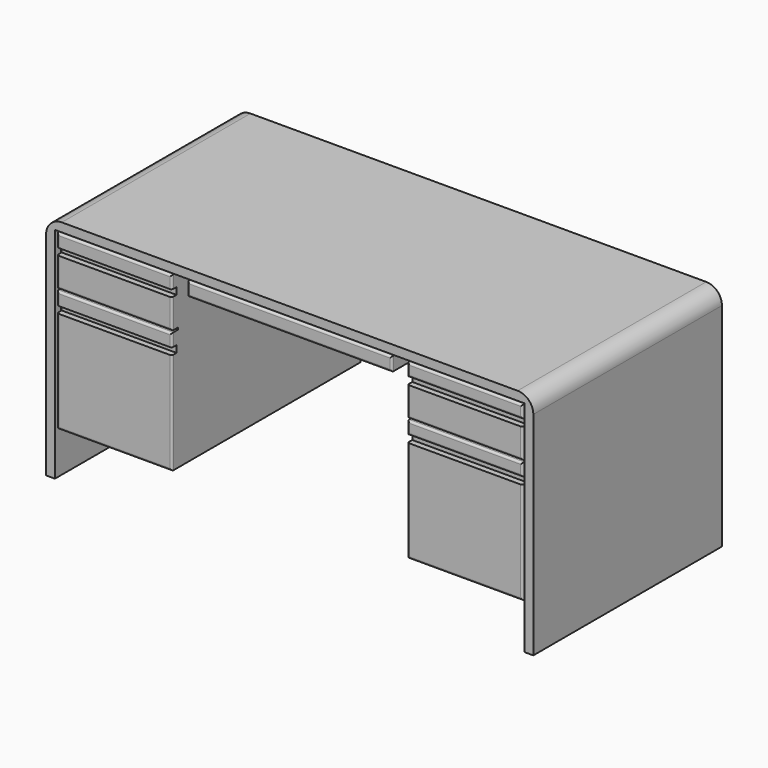
from build123d import *

# Parameters (mm, degrees)
F1_DEPTH = 381
F2_R     = 50.8
F3_W     = 660.4
F3_H     = 6.35
F4_DEPTH = 25.4
F3_W_2   = 371.475
F3_H_2   = 22.225
F5_DEPTH = 19.05
F6_R     = 6.35


with BuildPart() as f1:
    # F0 (on Front) → F1 (new body, symmetric)
    with BuildSketch(Plane.XZ):
        Polygon((787.4, 368.3), (-787.4, 368.3), (-787.4, -368.3), (-758.825, -368.3), (-758.825, -224.1076678038), (-381, -224.1076678038), (-381, 339.725), (-330.2, 339.725), (-330.2, 288.925), (330.2, 288.925), (330.2, 339.725), (381, 339.725), (381, -224.1076678038), (758.825, -224.1076678038), (758.825, -368.3), (787.4, -368.3), align=None)
    extrude(amount=F1_DEPTH, both=True)

    # F2
    f2_edges = [f1.edges().sort_by_distance(p)[0] for p in [
        (787.4, 0, 368.3),
        (-787.4, 0, 368.3),
    ]]
    fillet(f2_edges, radius=F2_R)

    # F3 (on face) → F4 (cut)
    with BuildSketch(Plane.XZ.offset(381)):
        Polygon((-758.825, 339.725), (-758.825, -224.1076678038), (-752.475, -224.1076678038), (-752.475, 104.775), (-752.475, 127), (-752.475, 168.275), (-381, 168.275), (-381, 174.625), (-752.475, 174.625), (-752.475, 269.875), (-752.475, 292.1), (-752.475, 333.375), (-381, 333.375), (-381, 339.725), align=None)
        with Locations((0, 336.55)):
            Rectangle(F3_W, F3_H)
        Polygon((758.825, 339.725), (381, 339.725), (381, 333.375), (752.475, 333.375), (752.475, 292.1), (752.475, 269.875), (752.475, 174.625), (381, 174.625), (381, 168.275), (752.475, 168.275), (752.475, 127), (752.475, 104.775), (752.475, -224.1076678038), (758.825, -224.1076678038), align=None)
    extrude(amount=-F4_DEPTH, mode=Mode.SUBTRACT)

    # F3 (on face) → F5 (cut)
    with BuildSketch(Plane.XZ.offset(381)):
        with Locations((-566.7375, 115.8875)):
            Rectangle(F3_W_2, F3_H_2)
        with Locations((-566.7375, 280.9875)):
            Rectangle(F3_W_2, F3_H_2)
        with Locations((566.7375, 280.9875)):
            Rectangle(F3_W_2, F3_H_2)
        with Locations((566.7375, 115.8875)):
            Rectangle(F3_W_2, F3_H_2)
    extrude(amount=-F5_DEPTH, mode=Mode.SUBTRACT)

    # F6
    f6_edges = [f1.edges().sort_by_distance(p)[0] for p in [
        (-566.7375, -381, -224.107668),
        (-381, -381, -59.666334),
        (-381, -381, 147.6375),
        (-381, -381, 222.25),
        (-566.7375, -381, 168.275),
        (-566.7375, -381, 174.625),
        (-381, -381, 312.7375),
        (-566.7375, -381, 333.375),
        (-752.475, -381, 312.7375),
        (-752.475, -381, 222.25),
        (-752.475, -381, 147.6375),
        (-752.475, -381, -59.666334),
        (-330.2, -381, 311.15),
        (0, -381, 288.925),
        (0, -381, 333.375),
        (330.2, -381, 311.15),
        (566.7375, -381, 333.375),
        (381, -381, 312.7375),
        (566.7375, -381, 292.1),
        (752.475, -381, 312.7375),
        (381, -381, 222.25),
        (566.7375, -381, 174.625),
        (752.475, -381, 222.25),
        (566.7375, -381, 168.275),
        (381, -381, 147.6375),
        (566.7375, -381, 127),
        (752.475, -381, 147.6375),
        (381, -381, -59.666334),
        (752.475, -381, -59.666334),
        (566.7375, -381, -224.107668),
    ]]
    fillet(f6_edges, radius=F6_R)


solid = f1.part
